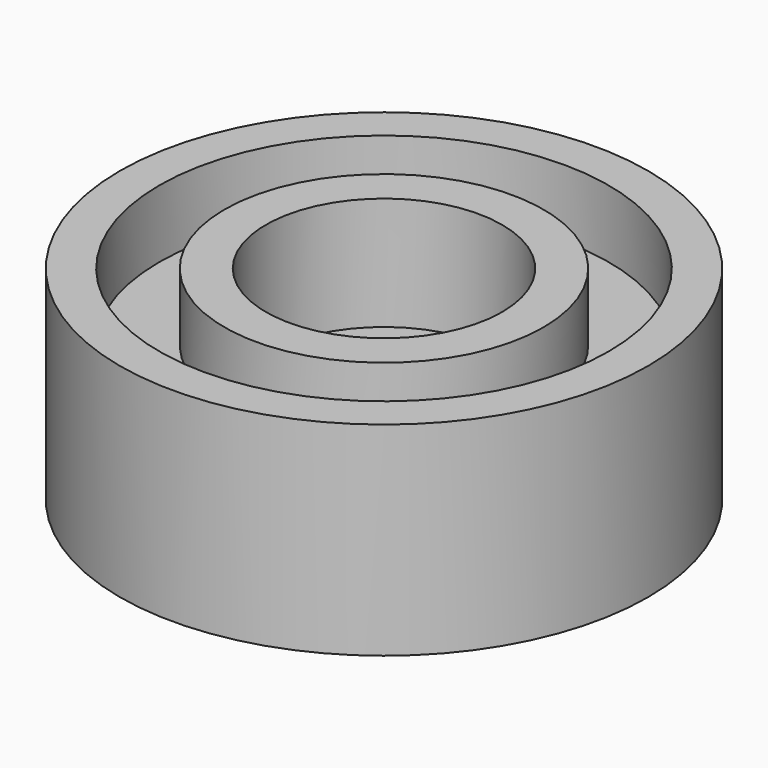
from build123d import *

# Parameters (mm, degrees)
F0_R     = 7.825
F0_R_2   = 3.5
F1_DEPTH = 6.03
F0_R_3   = 2.45
F2_DEPTH = 2.68
F3_R     = 6.65919
F3_R_2   = 4.726229
F4_DEPTH = 2


with BuildPart() as f1:
    # F0 (on Top) → F1 (new body)
    with BuildSketch(Plane.XY):
        Circle(F0_R)
        Circle(F0_R_2, mode=Mode.SUBTRACT)
    extrude(amount=F1_DEPTH)

    # F0 (on Top) → F2 (join)
    with BuildSketch(Plane.XY):
        Circle(F0_R_2)
        Circle(F0_R_3, mode=Mode.SUBTRACT)
    extrude(amount=F2_DEPTH)

    # F3 (on face) → F4 (cut)
    with BuildSketch(Plane.XY.offset(6.03)):
        Circle(F3_R)
        Circle(F3_R_2, mode=Mode.SUBTRACT)
    extrude(amount=-F4_DEPTH, mode=Mode.SUBTRACT)


solid = f1.part
